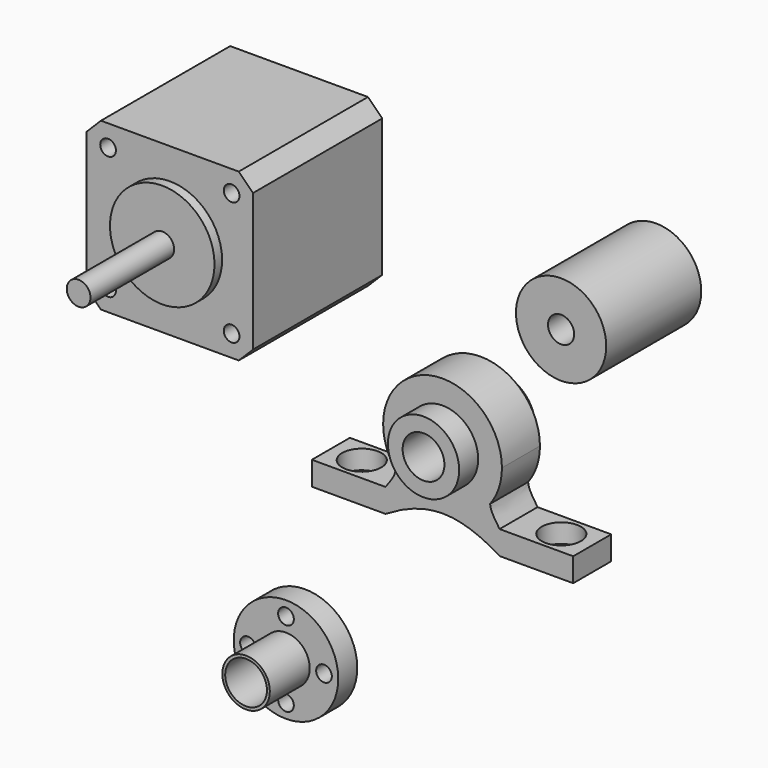
from build123d import *

# Parameters (mm, degrees)
F0_R           = 7.5
F0_W           = 15.5
F0_H           = 5
F1_DEPTH       = 10
F3_D           = 4.4
F3_CBORE_D     = 8.25
F3_CBORE_DEPTH = 4
F4_R           = 7.5
F5_DEPTH       = 15
F5_DEPTH_BACK  = 5
F7_D           = 8.8
F8_W           = 35
F8_H           = 35
F9_DEPTH       = 34
F10_SIZE       = 3
F12_D          = 3.3
F12_DEPTH      = 4
F12_TIP        = 0.9914200214
F13_R          = 11
F14_DEPTH      = 2
F15_R          = 2.5
F16_DEPTH      = 22
F17_R          = 9.5
F18_DEPTH      = 25
F20_D          = 5.5
F22_D          = 8.8
F22_DEPTH      = 14.5
F22_TIP        = 2.6437867237
F23_R          = 11
F24_DEPTH      = 5
F25_R          = 5
F26_DEPTH      = 10.5
F26_DEPTH_BACK = 7
F28_D          = 3.3
F30_D          = 8.8


with BuildPart() as f1:
    # F0 (on Front) → F1 (new body)
    with BuildSketch(Plane.XZ):
        with BuildLine():
            add(Edge.make_bspline(
                [(-9.8939468786, -7.6393596042), (-9.7047409223, -5.6719102787), (-11.090716619, -2.8071900072), (-12.5, 0)],
                knots=[0.4246693025, 0.4246693025, 0.4246693025, 0.4246693025, 1, 1, 1, 1], degree=3))
            ThreePointArc((-9.8939468786, -7.6393596042), (-5.511715021, -11.2192244619), (2e-10, -12.5))
            ThreePointArc((2e-10, -12.5), (5.6016547487, -11.1745901078), (10.0153913186, -7.4794342524))
            add(Edge.make_bspline(
                [(10.0153913186, -7.4794342524), (9.860485112, -5.5078260752), (11.1837295075, -2.7353221403), (12.5, 0)],
                knots=[0.4299579373, 0.4299579373, 0.4299579373, 0.4299579373, 1, 1, 1, 1], degree=3))
            ThreePointArc((12.5, 0), (0, 12.5), (-12.5, 0))
        make_face()
        Circle(F0_R, mode=Mode.SUBTRACT)
        with Locations((-19.75, -14)):
            Rectangle(F0_W, F0_H)
        with Locations((19.75, -14)):
            Rectangle(F0_W, F0_H)
        with BuildLine():
            add(Edge.make_bspline(
                [(-12, -11.5), (-11.0314817091, -10.0549629877), (-10.0336056207, -9.0915945297), (-9.8939468786, -7.6393596042)],
                knots=[0, 0, 0, 0, 0.4246693025, 0.4246693025, 0.4246693025, 0.4246693025], degree=3))
            Line((-12, -11.5), (-12, -16.5))
            add(Edge.make_bspline(
                [(-12, -16.5), (-8, -14), (-4, -12.5), (0, -12.5)],
                knots=[0, 0, 0, 0, 0.5, 0.5, 0.5, 0.5], degree=3))
            ThreePointArc((2e-10, -12.5), (-5.511715021, -11.2192244619), (-9.8939468786, -7.6393596042))
        make_face()
        with BuildLine():
            ThreePointArc((-12.5, 0), (-11.830560764, -4.0358186293), (-9.8939468786, -7.6393596042))
            add(Edge.make_bspline(
                [(-9.8939468786, -7.6393596042), (-9.7047409223, -5.6719102787), (-11.090716619, -2.8071900072), (-12.5, 0)],
                knots=[0.4246693025, 0.4246693025, 0.4246693025, 0.4246693025, 1, 1, 1, 1], degree=3))
        make_face()
        with BuildLine():
            ThreePointArc((10.0153913186, -7.4794342524), (5.6016547487, -11.1745901078), (2e-10, -12.5))
            add(Edge.make_bspline(
                [(0, -12.5), (4, -12.5), (8, -14), (12, -16.5)],
                knots=[0.5, 0.5, 0.5, 0.5, 1, 1, 1, 1], degree=3))
            Line((12, -16.5), (12, -11.5))
            add(Edge.make_bspline(
                [(12, -11.5), (11.0899934895, -9.9979989555), (10.1322303335, -8.9665325573), (10.0153913186, -7.4794342524)],
                knots=[0, 0, 0, 0, 0.4299579373, 0.4299579373, 0.4299579373, 0.4299579373], degree=3))
        make_face()
        with BuildLine():
            add(Edge.make_bspline(
                [(10.0153913186, -7.4794342524), (9.860485112, -5.5078260752), (11.1837295075, -2.7353221403), (12.5, 0)],
                knots=[0.4299579373, 0.4299579373, 0.4299579373, 0.4299579373, 1, 1, 1, 1], degree=3))
            ThreePointArc((10.0153913186, -7.4794342524), (11.8625965008, -3.9406603836), (12.5, 0))
        make_face()
    extrude(amount=F1_DEPTH)

    # F3 (through all)
    with Locations(Plane.XY.offset(-11.5)):
        with Locations((-21, -5), (21, -5)):
            CounterBoreHole(F3_D / 2, F3_CBORE_D / 2, F3_CBORE_DEPTH)

    # F4 (on Front) → F5 (join, two sides)
    with BuildSketch(Plane.XZ) as f5_sk:
        Circle(F4_R)
    extrude(amount=F5_DEPTH)
    extrude(f5_sk.sketch, amount=-F5_DEPTH_BACK)

    # F7 (through all)
    with Locations(Plane.XZ.offset(15)):
        with Locations((0, 0)):
            Hole(F7_D / 2)


with BuildPart() as f9:
    # F8 (on Front) → F9 (new body)
    with BuildSketch(Plane.XZ):
        with Locations((-38.1931299344, 35.3841675613)):
            Rectangle(F8_W, F8_H)
    extrude(amount=F9_DEPTH)

    # F10
    f10_edges = [f9.edges().sort_by_distance(p)[0] for p in [
        (-55.69313, -17, 52.884168),
        (-20.69313, -17, 52.884168),
        (-55.69313, -17, 17.884168),
        (-20.69313, -17, 17.884168),
    ]]
    chamfer(f10_edges, length=F10_SIZE)

    # F12
    with Locations(Plane.XZ.offset(34)):
        with Locations((-51.1931299344, 48.3841675613), (-51.1931299344, 22.3841675613), (-25.1931299344, 22.3841675613), (-25.1931299344, 48.3841675613)):
            Hole(F12_D / 2, depth=F12_DEPTH)
            with Locations((0, 0, -(F12_DEPTH + F12_TIP / 2))):  # 118° drill point
                Cone(0, F12_D / 2, F12_TIP, mode=Mode.SUBTRACT)

    # F13 (on face) → F14 (join)
    with BuildSketch(Plane.XZ.offset(34)):
        with Locations((-38.1931299344, 35.3841675613)):
            Circle(F13_R)
    extrude(amount=F14_DEPTH)

    # F15 (on face) → F16 (join)
    with BuildSketch(Plane.XZ.offset(36)):
        with Locations((-38.1931299344, 35.3841675613)):
            Circle(F15_R)
    extrude(amount=F16_DEPTH)


with BuildPart() as f18:
    # F17 (on Front) → F18 (new body)
    with BuildSketch(Plane.XZ):
        with Locations((36.949057132, 39.6860204637)):
            Circle(F17_R)
    extrude(amount=F18_DEPTH)

    # F20 (through all)
    with Locations(Plane.XZ.offset(25)):
        with Locations((36.949057132, 39.6860204637)):
            Hole(F20_D / 2)

    # F22
    with Locations(Plane(origin=(0, 0, 0), x_dir=(-1, 0, 0), z_dir=(0, 1, 0))):
        with Locations((-36.949057132, 39.6860204637)):
            Hole(F22_D / 2, depth=F22_DEPTH)
            with Locations((0, 0, -(F22_DEPTH + F22_TIP / 2))):  # 118° drill point
                Cone(0, F22_D / 2, F22_TIP, mode=Mode.SUBTRACT)


with BuildPart() as f24:
    # F23 (on Front) → F24 (new body)
    with BuildSketch(Plane.XZ):
        with Locations((-36.9490534067, -53.6196678877)):
            Circle(F23_R)
    extrude(amount=F24_DEPTH)

    # F25 (on face) → F26 (join, two sides)
    with BuildSketch(Plane.XZ.offset(5)) as f26_sk:
        with Locations((-36.9490534067, -53.6196678877)):
            Circle(F25_R)
    extrude(amount=F26_DEPTH)
    extrude(f26_sk.sketch, amount=-F26_DEPTH_BACK)

    # F28 (through all)
    with Locations(Plane.XZ.offset(5)):
        with Locations((-36.9490534067, -45.6196678877), (-28.9490534067, -53.6196678877), (-36.9490534067, -61.6196678877), (-44.9490534067, -53.6196678877)):
            Hole(F28_D / 2)

    # F30 (through all)
    with Locations(Plane.XZ.offset(15.5)):
        with Locations((-36.9490534067, -53.6196678877)):
            Hole(F30_D / 2)


solid = Compound([f1.part, f9.part, f18.part, f24.part])
